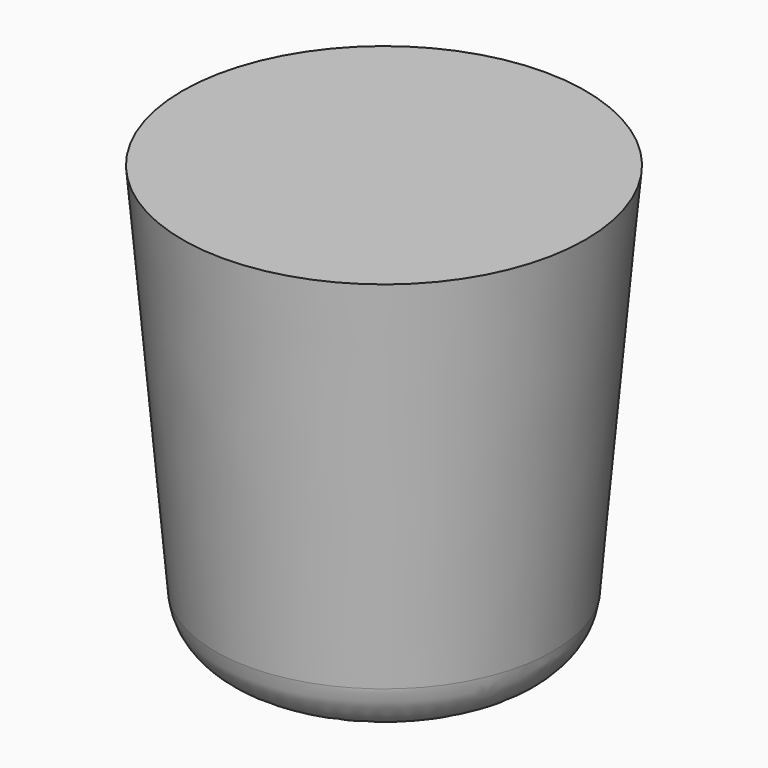
from build123d import *

# Parameters (mm, degrees)
F0_R          = 38.1
F1_DEPTH      = 88.9
F1_TAPER      = -5
F1_DEPTH_BACK = 7.62
F2_R          = 12.7


with BuildPart() as f1:
    # F0 (on Top) → F1 (new body, two sides)
    with BuildSketch(Plane.XY) as f1_sk:
        Circle(F0_R)
    extrude(amount=F1_DEPTH, taper=F1_TAPER)
    extrude(f1_sk.sketch, amount=-F1_DEPTH_BACK)

    # F2
    f2_edges = [f1.edges().sort_by_distance(p)[0] for p in [
        (-38.1, 0, -7.62),
    ]]
    fillet(f2_edges, radius=F2_R)


solid = f1.part
